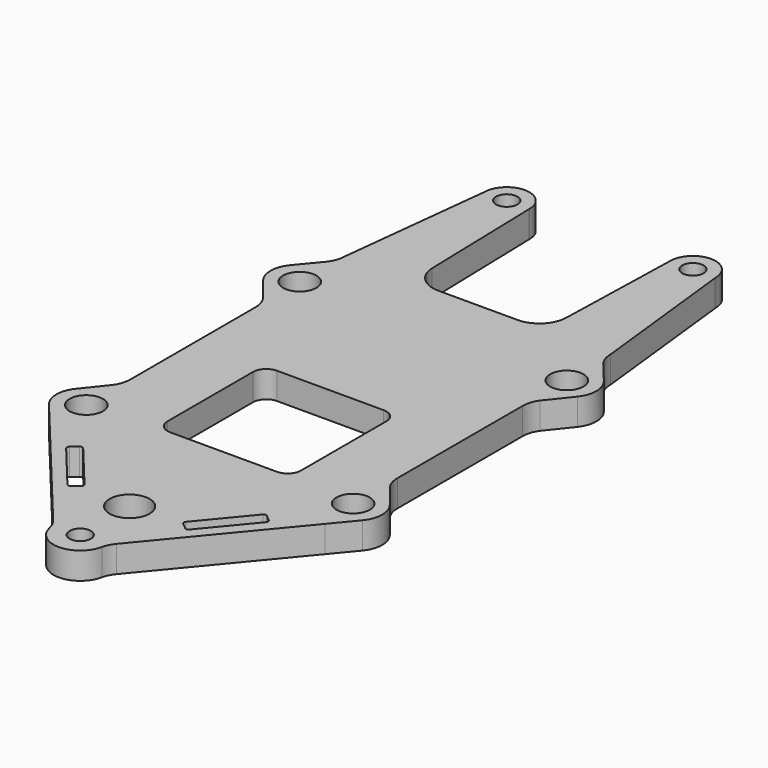
from build123d import *

# Parameters (mm, degrees)
F0_R     = 0.8
F0_R_2   = 1.5
F0_R_3   = 1.25
F1_DEPTH = 2


with BuildPart() as f1:
    # F0 (on Top) → F1 (new body)
    with BuildSketch(Plane.XY):
        with BuildLine():
            Line((10.009608, -5.875233), (10.009608, 5.875233))
            ThreePointArc((10.009608, 5.875233), (10.10321, 6.479919), (10.375253, 7.028005))
            Line((10.375253, 7.028005), (11.773889, 8.782295))
            ThreePointArc((11.773889, 8.782295), (12.209984, 10.04744), (11.750731, 11.304364))
            Line((11.750731, 11.304364), (10.320118, 13.032675))
            ThreePointArc((10.320118, 13.032675), (10.044588, 13.582548), (9.949174, 14.190143))
            Line((9.949174, 14.190143), (8.682091, 25.56351))
            ThreePointArc((8.682091, 25.56351), (8.678182, 25.607343), (8.676205, 25.651306))
            ThreePointArc((8.676205, 25.651306), (6.95314, 27.312167), (5.276671, 25.604284))
            ThreePointArc((5.276671, 25.604284), (5.276621, 25.588507), (5.276322, 25.572732))
            Line((5.276322, 25.572732), (5.024577, 16.189424))
            ThreePointArc((5.024577, 16.189424), (4.40399, 14.772505), (2.970938, 14.190143))
            Line((2.970938, 14.190143), (-2.970938, 14.190143))
            ThreePointArc((-2.970938, 14.190143), (-4.40399, 14.772505), (-5.024577, 16.189424))
            Line((-5.024577, 16.189424), (-5.276322, 25.572732))
            ThreePointArc((-5.276322, 25.572732), (-5.276621, 25.588507), (-5.276671, 25.604284))
            ThreePointArc((-5.276671, 25.604284), (-6.95314, 27.312167), (-8.676205, 25.651306))
            ThreePointArc((-8.676205, 25.651306), (-8.678182, 25.607343), (-8.682091, 25.56351))
            Line((-8.682091, 25.56351), (-9.949174, 14.190143))
            ThreePointArc((-9.949174, 14.190143), (-10.044588, 13.582548), (-10.320118, 13.032675))
            Line((-10.320118, 13.032675), (-11.750731, 11.304364))
            ThreePointArc((-11.750731, 11.304364), (-12.209984, 10.04744), (-11.773889, 8.782295))
            Line((-11.773889, 8.782295), (-10.375253, 7.028005))
            ThreePointArc((-10.375253, 7.028005), (-10.10321, 6.479919), (-10.009608, 5.875233))
            Line((-10.009608, 5.875233), (-10.009608, -5.875233))
            ThreePointArc((-10.009608, -5.875233), (-10.10321, -6.479919), (-10.375253, -7.028005))
            Line((-10.375253, -7.028005), (-11.773889, -8.782295))
            ThreePointArc((-11.773889, -8.782295), (-12.209984, -10.04744), (-11.750731, -11.304364))
            Line((-11.750731, -11.304364), (-10.320118, -13.032675))
            Line((-10.320118, -13.032675), (-2.368045, -22.639501))
            ThreePointArc((-2.368045, -22.639501), (-2.11021, -23.039914), (-1.954354, -23.489934))
            ThreePointArc((-1.954354, -23.489934), (0, -25.065081), (1.954354, -23.489934))
            ThreePointArc((1.954354, -23.489934), (2.11021, -23.039914), (2.368045, -22.639501))
            Line((2.368045, -22.639501), (10.320118, -13.032675))
            Line((10.320118, -13.032675), (11.750731, -11.304364))
            ThreePointArc((11.750731, -11.304364), (12.209984, -10.04744), (11.773889, -8.782295))
            Line((11.773889, -8.782295), (10.375253, -7.028005))
            ThreePointArc((10.375253, -7.028005), (10.10321, -6.479919), (10.009608, -5.875233))
        make_face()
        with Locations((0, -23.06508)):
            Circle(F0_R, mode=Mode.SUBTRACT)
        with BuildLine():
            Line((-4.566131, -18.556385), (-7.499292, -15.01286))
            ThreePointArc((-7.499292, -15.01286), (-7.544344, -14.866566), (-7.472755, -14.731265))
            Line((-7.472755, -14.731265), (-7.010556, -14.348679))
            ThreePointArc((-7.010556, -14.348679), (-6.864262, -14.303627), (-6.728961, -14.375216))
            Line((-6.728961, -14.375216), (-3.7958, -17.918741))
            ThreePointArc((-3.7958, -17.918741), (-3.750748, -18.065034), (-3.822337, -18.200336))
            Line((-3.822337, -18.200336), (-4.284536, -18.582922))
            ThreePointArc((-4.284536, -18.582922), (-4.43083, -18.627974), (-4.566131, -18.556385))
        make_face(mode=Mode.SUBTRACT)
        with Locations((0, -18.439241)):
            Circle(F0_R_2, mode=Mode.SUBTRACT)
        with Locations((-10, -10)):
            Circle(F0_R_3, mode=Mode.SUBTRACT)
        with BuildLine():
            ThreePointArc((5, -8.632429), (4.707107, -9.339536), (4, -9.632429))
            Line((4, -9.632429), (-4, -9.632429))
            ThreePointArc((-4, -9.632429), (-4.707107, -9.339536), (-5, -8.632429))
            Line((-5, -8.632429), (-5, -0.632429))
            ThreePointArc((-5, -0.632429), (-4.707107, 0.074678), (-4, 0.367571))
            Line((-4, 0.367571), (4, 0.367571))
            ThreePointArc((4, 0.367571), (4.707107, 0.074678), (5, -0.632429))
            Line((5, -0.632429), (5, -8.632429))
        make_face(mode=Mode.SUBTRACT)
        with BuildLine():
            Line((3.7958, -17.918741), (6.728961, -14.375216))
            ThreePointArc((6.728961, -14.375216), (6.864262, -14.303627), (7.010556, -14.348679))
            Line((7.010556, -14.348679), (7.472755, -14.731265))
            ThreePointArc((7.472755, -14.731265), (7.544344, -14.866566), (7.499292, -15.01286))
            Line((7.499292, -15.01286), (4.566131, -18.556385))
            ThreePointArc((4.566131, -18.556385), (4.43083, -18.627974), (4.284536, -18.582922))
            Line((4.284536, -18.582922), (3.822337, -18.200336))
            ThreePointArc((3.822337, -18.200336), (3.750748, -18.065034), (3.7958, -17.918741))
        make_face(mode=Mode.SUBTRACT)
        with Locations((10, -10)):
            Circle(F0_R_3, mode=Mode.SUBTRACT)
        with Locations((-10.009608, 10.009608)):
            Circle(F0_R_3, mode=Mode.SUBTRACT)
        with Locations((-6.976652, 25.61233)):
            Circle(F0_R, mode=Mode.SUBTRACT)
        with Locations((10.009608, 10.009608)):
            Circle(F0_R_3, mode=Mode.SUBTRACT)
        with Locations((6.976652, 25.61233)):
            Circle(F0_R, mode=Mode.SUBTRACT)
    extrude(amount=F1_DEPTH)


solid = f1.part
